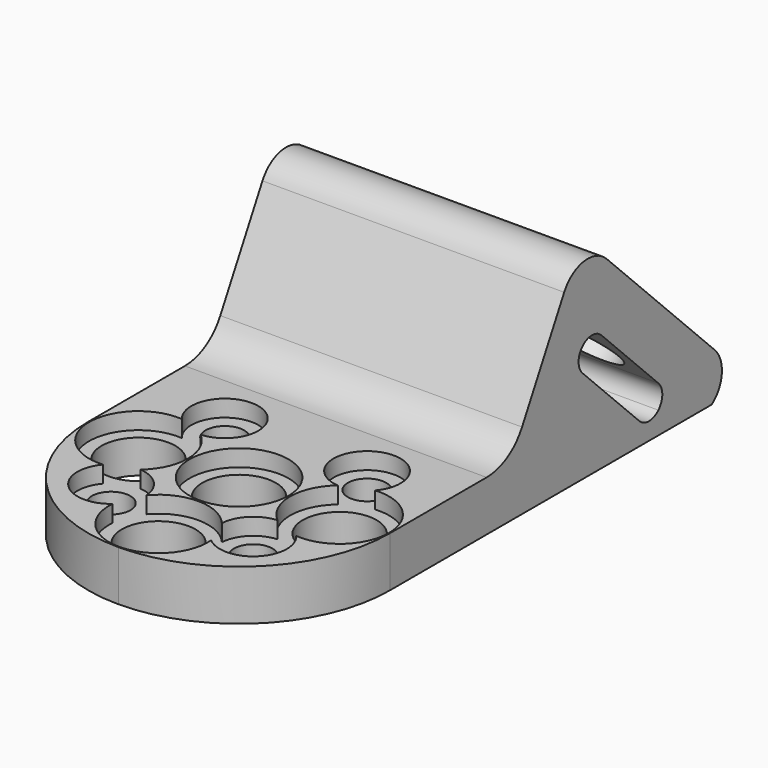
from build123d import *

# Parameters (mm, degrees)
F1_DEPTH = 18
F2_R     = 2.2
F2_R_2   = 1.15
F3_DEPTH = 3.001
F2_R_3   = 2.95
F4_DEPTH = 1
F5_R     = 2.2
F6_DEPTH = 3
F5_R_2   = 2.95
F7_DEPTH = 1


with BuildPart() as f1:
    # F0 (on Right) → F1 (new body)
    with BuildSketch(Plane.YZ):
        with BuildLine():
            Line((-20.2248597033, 3), (-20.2248597033, 0))
            Line((-20.2248597033, 0), (12.7751402967, 0))
            ThreePointArc((12.7751402967, 0), (13.5282296336, 1.3368087613), (12.9983799607, 2.776760336))
            Line((12.9983799607, 2.776760336), (4.9426106974, 10.8325295992))
            ThreePointArc((4.9426106974, 10.8325295992), (3.2406453095, 11.3975075099), (1.7700242043, 10.3712717737))
            Line((1.7700242043, 10.3712717737), (-1.373686309, 4.5705663947))
            ThreePointArc((-1.373686309, 4.5705663947), (-2.4763679927, 3.4223750451), (-4.0112457051, 3))
            Line((-4.0112457051, 3), (-20.2248597033, 3))
        make_face()
        with BuildLine():
            Line((4.5510043656, 6.9814952439), (8.7936450527, 2.7388545568))
            ThreePointArc((8.7936450527, 2.7388545568), (9.0865382716, 2.0317477756), (8.7936450527, 1.3246409944))
            ThreePointArc((8.7936450527, 1.3246409944), (8.0865382716, 1.0317477756), (7.3794314904, 1.3246409944))
            Line((7.3794314904, 1.3246409944), (3.1367908032, 5.5672816816))
            ThreePointArc((3.1367908032, 5.5672816816), (2.8438975844, 6.2743884627), (3.1367908032, 6.9814952439))
            ThreePointArc((3.1367908032, 6.9814952439), (3.8438975844, 7.2743884627), (4.5510043656, 6.9814952439))
        make_face(mode=Mode.SUBTRACT)
    extrude(amount=F1_DEPTH)

    # F2 (on face) → F3 (cut, through all)
    with BuildSketch(Plane.XY.offset(3)):
        with Locations((9, -11.2248597033)):
            Circle(F2_R)
        with Locations((3, -11.2248597033)):
            Circle(F2_R)
        with Locations((4.7573593129, -6.9822190162)):
            Circle(F2_R_2)
        with Locations((4.7573593129, -15.4675003905)):
            Circle(F2_R_2)
        with Locations((9, -17.2248597033)):
            Circle(F2_R)
        with Locations((13.2426406871, -15.4675003905)):
            Circle(F2_R_2)
        with Locations((15, -11.2248597033)):
            Circle(F2_R)
        with Locations((13.2426406871, -6.9822190162)):
            Circle(F2_R_2)
        with BuildLine():
            ThreePointArc((9, -20.2248597033), (2.6360389693, -17.588820734), (0, -11.2248597033))
            Line((0, -11.2248597033), (0, -20.2248597033))
            Line((0, -20.2248597033), (9, -20.2248597033))
        make_face()
        with BuildLine():
            ThreePointArc((18, -11.2248597033), (15.3639610307, -17.588820734), (9, -20.2248597033))
            Line((9, -20.2248597033), (18, -20.2248597033))
            Line((18, -20.2248597033), (18, -11.2248597033))
        make_face()
    extrude(amount=-F3_DEPTH, mode=Mode.SUBTRACT)

    # F2 (on face) → F4 (cut)
    with BuildSketch(Plane.XY.offset(3)):
        with BuildLine():
            ThreePointArc((4.9097033132, -8.9764084018), (5.5227261776, -5.1344599512), (3.2395309996, -8.284600378))
            ThreePointArc((3.2395309996, -8.284600378), (0.05, -11.2248597033), (3.2395309996, -14.1651190287))
            ThreePointArc((3.2395309996, -14.1651190287), (3.3431457505, -16.8817139528), (6.0597406747, -16.9853287037))
            ThreePointArc((6.0597406747, -16.9853287037), (9, -20.1748597033), (11.9402593253, -16.9853287037))
            ThreePointArc((11.9402593253, -16.9853287037), (14.6568542495, -16.8817139528), (14.7604690004, -14.1651190287))
            ThreePointArc((14.7604690004, -14.1651190287), (17.95, -11.2248597033), (14.7604690004, -8.284600378))
            ThreePointArc((14.7604690004, -8.284600378), (12.4772738224, -5.1344599512), (13.0902966868, -8.9764084018))
            ThreePointArc((13.0902966868, -8.9764084018), (12.05, -11.2248597033), (13.0902966868, -13.4733110049))
            ThreePointArc((13.0902966868, -13.4733110049), (11.8284271247, -14.0532868281), (11.2484513015, -15.3151563901))
            ThreePointArc((11.2484513015, -15.3151563901), (9, -14.2748597033), (6.7515486985, -15.3151563901))
            ThreePointArc((6.7515486985, -15.3151563901), (6.1715728753, -14.0532868281), (4.9097033132, -13.4733110049))
            ThreePointArc((4.9097033132, -13.4733110049), (5.95, -11.2248597033), (4.9097033132, -8.9764084018))
        make_face()
        with Locations((4.7573593129, -15.4675003905)):
            Circle(F2_R_2, mode=Mode.SUBTRACT)
        with Locations((9, -17.2248597033)):
            Circle(F2_R, mode=Mode.SUBTRACT)
        with Locations((13.2426406871, -15.4675003905)):
            Circle(F2_R_2, mode=Mode.SUBTRACT)
        with Locations((3, -11.2248597033)):
            Circle(F2_R, mode=Mode.SUBTRACT)
        with Locations((4.7573593129, -6.9822190162)):
            Circle(F2_R_2, mode=Mode.SUBTRACT)
        with Locations((15, -11.2248597033)):
            Circle(F2_R, mode=Mode.SUBTRACT)
        with Locations((13.2426406871, -6.9822190162)):
            Circle(F2_R_2, mode=Mode.SUBTRACT)
        with Locations((9, -11.2248597033)):
            Circle(F2_R_3)
        with Locations((9, -11.2248597033)):
            Circle(F2_R, mode=Mode.SUBTRACT)
    extrude(amount=-F4_DEPTH, mode=Mode.SUBTRACT)

    # F5 (on face) → F6 (cut, through all)
    with BuildSketch(Plane(origin=(0, 7.8875701483, 7.8875701483), x_dir=(-1, 0, 0), z_dir=(0, 0.7071067812, 0.7071067812))):
        with Locations((-15, -1.5314874776)):
            Circle(F5_R)
        with Locations((-9, -1.5314874776)):
            Circle(F5_R)
        with Locations((-3, -1.5314874776)):
            Circle(F5_R)
    extrude(amount=-F6_DEPTH, mode=Mode.SUBTRACT)

    # F5 (on face) → F7 (cut)
    with BuildSketch(Plane(origin=(0, 7.8875701483, 7.8875701483), x_dir=(-1, 0, 0), z_dir=(0, 0.7071067812, 0.7071067812))):
        with Locations((-15, -1.5314874776)):
            Circle(F5_R_2)
        with Locations((-15, -1.5314874776)):
            Circle(F5_R, mode=Mode.SUBTRACT)
        with Locations((-9, -1.5314874776)):
            Circle(F5_R_2)
        with Locations((-9, -1.5314874776)):
            Circle(F5_R, mode=Mode.SUBTRACT)
        with Locations((-3, -1.5314874776)):
            Circle(F5_R_2)
        with Locations((-3, -1.5314874776)):
            Circle(F5_R, mode=Mode.SUBTRACT)
    extrude(amount=-F7_DEPTH, mode=Mode.SUBTRACT)


solid = f1.part
